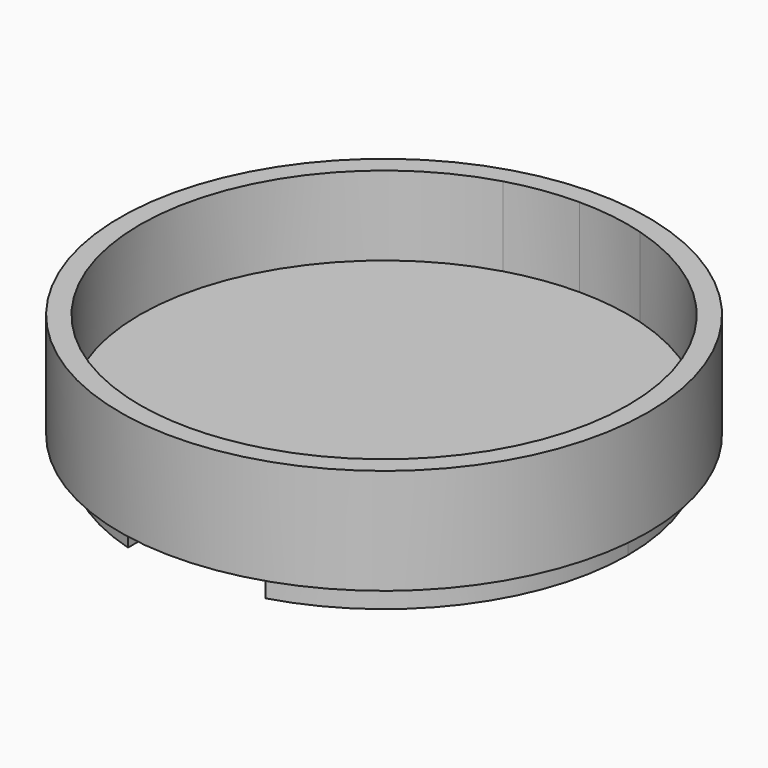
from build123d import *

# Parameters (mm, degrees)
F0_R     = 25.4
F1_DEPTH = 10.16
F2_DEPTH = 2.54
F3_DEPTH = 2.54


with BuildPart() as f1:
    # F0 (on Top) → F1 (new body)
    with BuildSketch(Plane.XY):
        Circle(F0_R)
        with BuildLine():
            ThreePointArc((0, -23.495), (-3.3357925983, -23.256988471), (-6.604, -22.5477761431))
            ThreePointArc((-6.604, -22.5477761431), (-23.495, 0), (-6.604, 22.5477761431))
            Line((-6.604, 22.5477761431), (-6.604, 23.495))
            Line((-6.604, 23.495), (0, 23.495))
            Line((0, 23.495), (6.604, 23.495))
            Line((6.604, 23.495), (6.604, 22.5477761431))
            ThreePointArc((6.604, 22.5477761431), (18.8039358247, 14.086412691), (23.495, 0))
            ThreePointArc((23.495, 0), (18.8039358247, -14.086412691), (6.604, -22.5477761431))
            ThreePointArc((6.604, -22.5477761431), (3.3357925983, -23.256988471), (0, -23.495))
        make_face(mode=Mode.SUBTRACT)
        with BuildLine():
            Line((-6.604, 23.495), (-6.604, 22.5477761431))
            ThreePointArc((-6.604, 22.5477761431), (-3.3357925983, 23.256988471), (0, 23.495))
            Line((0, 23.495), (-6.604, 23.495))
        make_face()
        with BuildLine():
            Line((6.604, 23.495), (0, 23.495))
            ThreePointArc((0, 23.495), (3.3357925983, 23.256988471), (6.604, 22.5477761431))
            Line((6.604, 22.5477761431), (6.604, 23.495))
        make_face()
    extrude(amount=F1_DEPTH)

    # F0 (on Top) → F2 (join)
    with BuildSketch(Plane.XY):
        with BuildLine():
            ThreePointArc((-6.604, 22.5477761431), (-23.495, 0), (-6.604, -22.5477761431))
            Line((-6.604, -22.5477761431), (-6.604, 22.5477761431))
        make_face()
        with BuildLine():
            Line((-6.604, 22.5477761431), (-6.604, -22.5477761431))
            Line((-6.604, -22.5477761431), (0, -22.5477761431))
            Line((0, -22.5477761431), (0, 23.495))
            ThreePointArc((0, 23.495), (-3.3357925983, 23.256988471), (-6.604, 22.5477761431))
        make_face()
        with BuildLine():
            Line((0, 23.495), (0, -22.5477761431))
            Line((0, -22.5477761431), (6.604, -22.5477761431))
            Line((6.604, -22.5477761431), (6.604, 22.5477761431))
            ThreePointArc((6.604, 22.5477761431), (3.3357925983, 23.256988471), (0, 23.495))
        make_face()
        with BuildLine():
            Line((6.604, 22.5477761431), (6.604, -22.5477761431))
            ThreePointArc((6.604, -22.5477761431), (18.8039358247, -14.086412691), (23.495, 0))
            ThreePointArc((23.495, 0), (18.8039358247, 14.086412691), (6.604, 22.5477761431))
        make_face()
    extrude(amount=F2_DEPTH)

    # F0 (on Top) → F3 (join)
    with BuildSketch(Plane.XY):
        with BuildLine():
            ThreePointArc((-6.604, 22.5477761431), (-23.495, 0), (-6.604, -22.5477761431))
            Line((-6.604, -22.5477761431), (-6.604, 22.5477761431))
        make_face()
        with BuildLine():
            Line((6.604, 22.5477761431), (6.604, -22.5477761431))
            ThreePointArc((6.604, -22.5477761431), (18.8039358247, -14.086412691), (23.495, 0))
            ThreePointArc((23.495, 0), (18.8039358247, 14.086412691), (6.604, 22.5477761431))
        make_face()
    extrude(amount=-F3_DEPTH)


solid = f1.part
